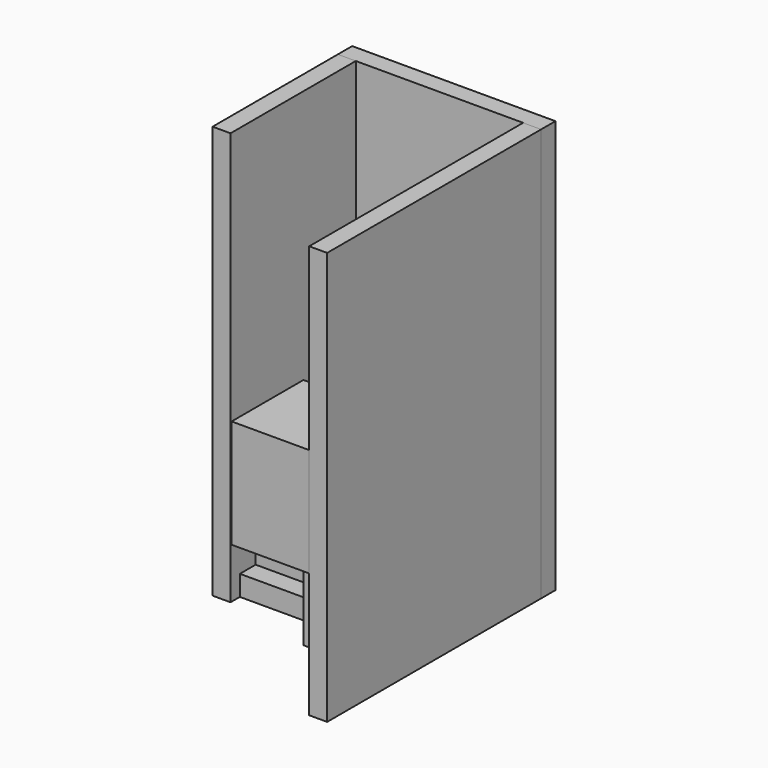
from build123d import *

# Parameters (mm, degrees)
F1_DEPTH  = 987
F2_DEPTH  = 797
F0_W      = 870
F0_H      = 220
F3_DEPTH  = 607
F4_DEPTH  = 417
F5_DEPTH  = 227
F6_DEPTH  = 1177
F7_DEPTH  = 1392
F0_W_2    = 865
F0_H_2    = 217
F8_DEPTH  = 1582
F9_DEPTH  = 1772
F10_DEPTH = 1962
F11_DEPTH = 2152
F12_DEPTH = 2342
F13_W     = 865
F13_H     = 1000
F14_DEPTH = 1210
F15_W     = 200
F15_H     = 1745
F16_DEPTH = 4602
F17_W     = 200
F17_H     = 2980
F18_DEPTH = 4602
F19_W     = 2265
F19_H     = 200
F20_DEPTH = 4602


with BuildPart() as f1:
    # F0 (on Top) → F1 (new body)
    with BuildSketch(Plane.XY):
        Polygon((0, 1745), (0, 1215), (265, 1480), (870, 875), (895, 875), (895, 1745), align=None)
    extrude(amount=F1_DEPTH)

    # F0 (on Top) → F2 (join, through all)
    with BuildSketch(Plane.XY):
        Polygon((0, 1215), (0, 790), (870, 790), (870, 875), (265, 1480), align=None)
    extrude(amount=F2_DEPTH)

    # F0 (on Top) → F3 (join, through all)
    with BuildSketch(Plane.XY):
        with Locations((435, 680)):
            Rectangle(F0_W, F0_H)
    extrude(amount=F3_DEPTH)

    # F0 (on Top) → F4 (join, through all)
    with BuildSketch(Plane.XY):
        with Locations((435, 460)):
            Rectangle(F0_W, F0_H)
    extrude(amount=F4_DEPTH)

    # F0 (on Top) → F5 (join, through all)
    with BuildSketch(Plane.XY):
        with Locations((435, 240)):
            Rectangle(F0_W, F0_H)
    extrude(amount=F5_DEPTH)

    # F0 (on Top) → F6 (join, through all)
    with BuildSketch(Plane.XY):
        Polygon((1340, 1745), (895, 1745), (895, 875), (1000, 875), (1605, 1480), align=None)
    extrude(amount=F6_DEPTH)

    # F0 (on Top) → F7 (join, through all)
    with BuildSketch(Plane.XY):
        Polygon((1865, 1745), (1340, 1745), (1605, 1480), (1000, 875), (1000, 850), (1865, 850), align=None)
    extrude(amount=F7_DEPTH)

    # F0 (on Top) → F8 (join, through all)
    with BuildSketch(Plane.XY):
        with Locations((1432.5, 741.5)):
            Rectangle(F0_W_2, F0_H_2)
    extrude(amount=F8_DEPTH)

    # F0 (on Top) → F9 (join, through all)
    with BuildSketch(Plane.XY):
        with Locations((1432.5, 524.5)):
            Rectangle(F0_W_2, F0_H_2)
    extrude(amount=F9_DEPTH)

    # F0 (on Top) → F10 (join, through all)
    with BuildSketch(Plane.XY):
        with Locations((1432.5, 307.5)):
            Rectangle(F0_W_2, F0_H_2)
    extrude(amount=F10_DEPTH)

    # F0 (on Top) → F11 (join, through all)
    with BuildSketch(Plane.XY):
        with Locations((1432.5, 90.5)):
            Rectangle(F0_W_2, F0_H_2)
    extrude(amount=F11_DEPTH)

    # F0 (on Top) → F12 (join, through all)
    with BuildSketch(Plane.XY):
        with Locations((1432.5, -126.5)):
            Rectangle(F0_W_2, F0_H_2)
    extrude(amount=F12_DEPTH)

    # F13 (on face) → F14 (join)
    with BuildSketch(Plane.XY.offset(1392)):
        with Locations((1432.5, -735)):
            Rectangle(F13_W, F13_H)
    extrude(amount=F14_DEPTH)


with BuildPart() as f16:
    # F15 (on Top) → F16 (new body, through all)
    with BuildSketch(Plane.XY):
        with Locations((-100, 872.5)):
            Rectangle(F15_W, F15_H)
    extrude(amount=F16_DEPTH)


with BuildPart() as f18:
    # F17 (on Top) → F18 (new body, through all)
    with BuildSketch(Plane.XY):
        with Locations((1965, 255)):
            Rectangle(F17_W, F17_H)
    extrude(amount=F18_DEPTH)


with BuildPart() as f20:
    # F19 (on Top) → F20 (new body, through all)
    with BuildSketch(Plane.XY):
        with Locations((932.5, 1845)):
            Rectangle(F19_W, F19_H)
    extrude(amount=F20_DEPTH)


solid = Compound([f1.part, f16.part, f18.part, f20.part])
